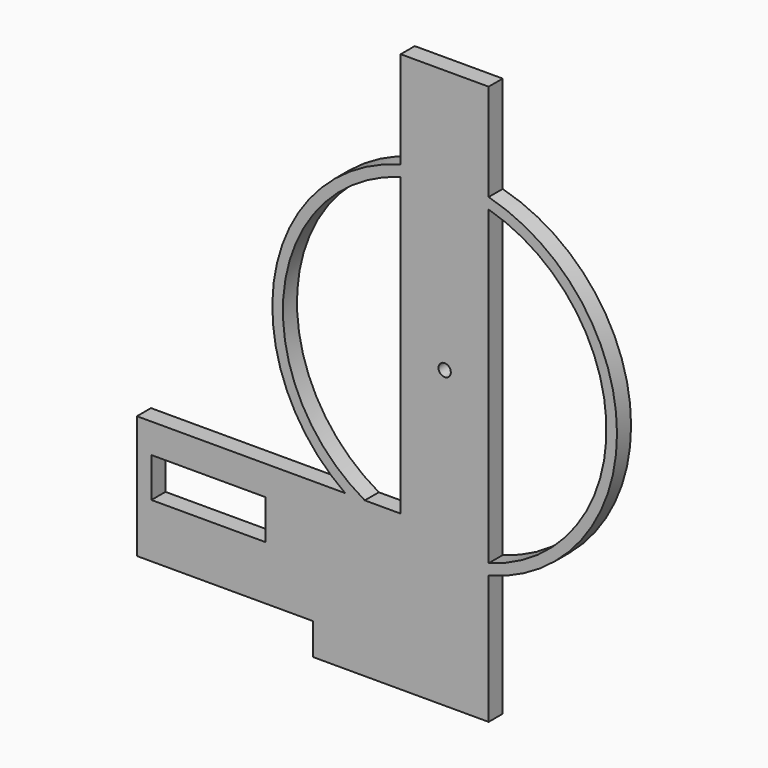
from build123d import *

# Parameters (mm, degrees)
F0_W      = 150
F0_H      = 70
F1_DEPTH  = 10
F2_R      = 98
F2_R_2    = 92
F3_DEPTH  = 10
F4_W      = 100
F4_H      = 10
F5_DEPTH  = 18
F6_R      = 3.5
F7_DEPTH  = 25
F8_R      = 3.5
F9_DEPTH  = 25
F10_W     = 65
F10_H     = 22.5
F11_DEPTH = 25


with BuildPart() as f1:
    # F0 (on Front) → F1 (new body)
    with BuildSketch(Plane.XZ):
        Polygon((25, 150), (-25, 150), (-25, -80), (-25, -150), (25, -150), align=None)
        with Locations((-100, -115)):
            Rectangle(F0_W, F0_H)
    extrude(amount=F1_DEPTH)

    # F2 (on face) → F3 (join)
    with BuildSketch(Plane.XZ.offset(10)):
        Circle(F2_R)
        Circle(F2_R_2, mode=Mode.SUBTRACT)
    extrude(amount=-F3_DEPTH)

    # F4 (on face) → F5 (join)
    with BuildSketch(Plane(origin=(0, 0, -150), x_dir=(1, 0, 0), z_dir=(0, 0, -1))):
        with Locations((-25, 5)):
            Rectangle(F4_W, F4_H)
    extrude(amount=F5_DEPTH)

    # F6 (on face) → F7 (cut)
    with BuildSketch(Plane.XZ.offset(10)):
        Circle(F6_R)
    extrude(amount=-F7_DEPTH, mode=Mode.SUBTRACT)

    # F8 (on face) → F9 (cut)
    with BuildSketch(Plane.XZ.offset(10)):
        with Locations((-113, -108)):
            Circle(F8_R)
    extrude(amount=-F9_DEPTH, mode=Mode.SUBTRACT)

    # F10 (on face) → F11 (cut)
    with BuildSketch(Plane.XZ.offset(10)):
        with Locations((-134.25, -108)):
            Rectangle(F10_W, F10_H)
    extrude(amount=-F11_DEPTH, mode=Mode.SUBTRACT)


solid = f1.part
